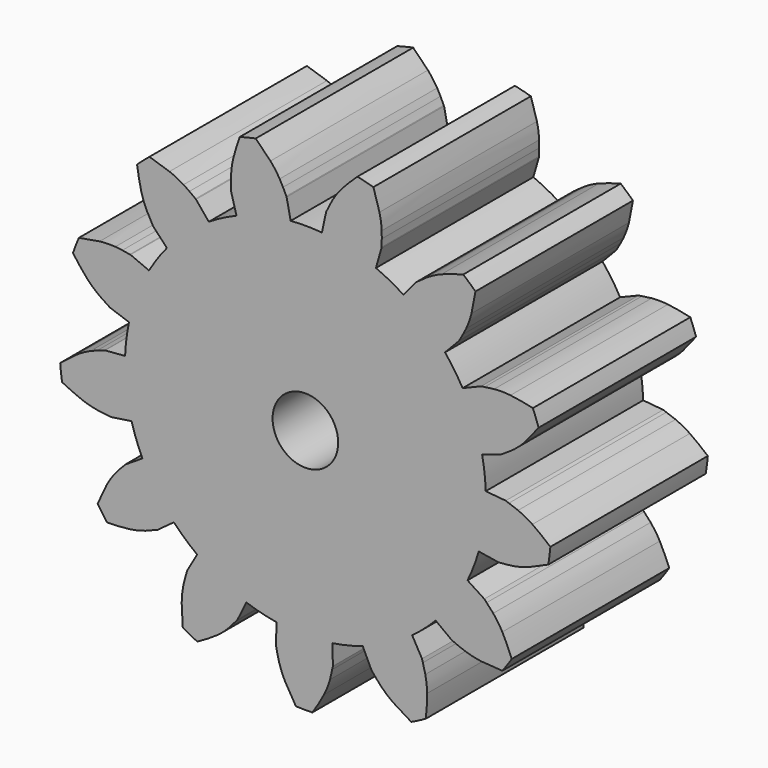
from build123d import *

# Parameters (mm, degrees)
F1_DEPTH = 15
F2_DEPTH = 15
F4_COUNT = 13
F5_R     = 2.5
F6_DEPTH = 15.0010001


with BuildPart() as f1:
    # F0 (on Front) → F1 (new body)
    with BuildSketch(Plane.XZ):
        with BuildLine():
            ThreePointArc((13.75, 0), (9.3178104819, 10.1114246189), (-1.1214047744, 13.7041946619))
            ThreePointArc((-1.1214047744, 13.7041946619), (-3.2236417123, 13.3667735116), (-5.2485836603, 12.7088500487))
            ThreePointArc((-5.2485836603, 12.7088500487), (-7.645079289, -11.4287034551), (13.75, 0))
        make_face()
    extrude(amount=F1_DEPTH)

    # F0 (on Front) → F2 (join)
    with BuildSketch(Plane.XZ):
        with BuildLine():
            Line((-1.4536982956, 15.2496541849), (-5.6721797954, 15.185469107))
            add(Edge.make_bspline(
                [(-5.6615185157, 14.44022242), (-5.6673100993, 14.6214792418), (-5.6810295998, 14.8934295531), (-5.6721797954, 15.185469107)],
                knots=[0.1333464108, 0.1333464108, 0.1333464108, 0.1333464108, 0.3605682514, 0.3605682514, 0.3605682514, 0.3605682514], degree=3))
            add(Edge.make_bspline(
                [(-5.6567827873, 14.1835772596), (-5.6574512399, 14.2587140488), (-5.6581196925, 14.3338508381), (-5.6615185157, 14.44022242)],
                knots=[0, 0, 0, 0, 0.1333464108, 0.1333464108, 0.1333464108, 0.1333464108], degree=3))
            Line((-5.6567827873, 14.1835772596), (-5.2485836603, 12.7088500487))
            ThreePointArc((-5.2485836603, 12.7088500487), (-3.2236417123, 13.3667735116), (-1.1214047744, 13.7041946619))
            Line((-1.1214047744, 13.7041946619), (-1.4302964184, 15.2028716872))
            add(Edge.make_bspline(
                [(-1.4302964184, 15.2028716872), (-1.4380489335, 15.2183475028), (-1.4458014487, 15.2338233185), (-1.4536982956, 15.2496541849)],
                knots=[0, 0, 0, 0, 0.030717377, 0.030717377, 0.030717377, 0.030717377], degree=3))
        make_face()
        with BuildLine():
            Line((-1.7033354648, 15.7722485368), (-5.5101786738, 16.4136780438))
            add(Edge.make_bspline(
                [(-5.6721797954, 15.185469107), (-5.6607702001, 15.5619806063), (-5.6118467821, 15.9718836648), (-5.5101786738, 16.4136780438)],
                knots=[0.3605682514, 0.3605682514, 0.3605682514, 0.3605682514, 0.6535136238, 0.6535136238, 0.6535136238, 0.6535136238], degree=3))
            Line((-5.6721797954, 15.185469107), (-1.4536982956, 15.2496541849))
            add(Edge.make_bspline(
                [(-1.4536982956, 15.2496541849), (-1.4800822464, 15.3025462829), (-1.5425618047, 15.4294364971), (-1.6398785588, 15.6420249398), (-1.7033354648, 15.7722485368)],
                knots=[0.030717377, 0.030717377, 0.030717377, 0.030717377, 0.1333464108, 0.2597652555, 0.2597652555, 0.2597652555, 0.2597652555], degree=3))
        make_face()
        with BuildLine():
            Line((-2.6608039678, 17.2184534435), (-5.0018560577, 18.0705267211))
            add(Edge.make_bspline(
                [(-5.5101786738, 16.4136780438), (-5.3899289012, 16.9362182435), (-5.1958924795, 17.5033724823), (-5.0018560577, 18.0705267211)],
                knots=[0.6535136238, 0.6535136238, 0.6535136238, 0.6535136238, 1, 1, 1, 1], degree=3))
            Line((-5.5101786738, 16.4136780438), (-1.7033354648, 15.7722485368))
            add(Edge.make_bspline(
                [(-1.7033354648, 15.7722485368), (-1.7539342996, 15.8760853401), (-1.8353328882, 16.0366506526), (-1.9285544102, 16.2002856275), (-1.9578549745, 16.25)],
                knots=[0.2597652555, 0.2597652555, 0.2597652555, 0.2597652555, 0.3605682514, 0.4042372682, 0.4042372682, 0.4042372682, 0.4042372682], degree=3))
            add(Edge.make_bspline(
                [(-1.9578549745, 16.25), (-2.1251117261, 16.5337851297), (-2.3513660837, 16.8579203433), (-2.6324661308, 17.1859298332), (-2.6608039678, 17.2184534435)],
                knots=[0.4042372682, 0.4042372682, 0.4042372682, 0.4042372682, 0.6535136238, 0.6809182585, 0.6809182585, 0.6809182585, 0.6809182585], degree=3))
        make_face()
        with BuildLine():
            add(Edge.make_bspline(
                [(-2.6608039678, 17.2184534435), (-2.9907513098, 17.597137207), (-3.3878730146, 17.9805661391), (-3.7849947193, 18.3639950712)],
                knots=[0.6809182585, 0.6809182585, 0.6809182585, 0.6809182585, 1, 1, 1, 1], degree=3))
            ThreePointArc((-3.7849947193, 18.3639950712), (-4.3958750622, 18.2274184249), (-5.0018560577, 18.0705267211))
            Line((-5.0018560577, 18.0705267211), (-2.6608039678, 17.2184534435))
        make_face()
    extrude(amount=F2_DEPTH)

    # F4: F1 ×13 about axis
    f4_axis = Axis((0, -32.3517546058, 0), (0, -1, 0))


with BuildPart() as f1_1:
    add(f1.part)
    for i in range(1, F4_COUNT):
        add(f1.part.rotate(f4_axis, i * 360 / F4_COUNT))

    # F5 (on Front) → F6 (cut, through all)
    with BuildSketch(Plane.XZ):
        Circle(F5_R)
    extrude(amount=F6_DEPTH, mode=Mode.SUBTRACT)


solid = f1_1.part
